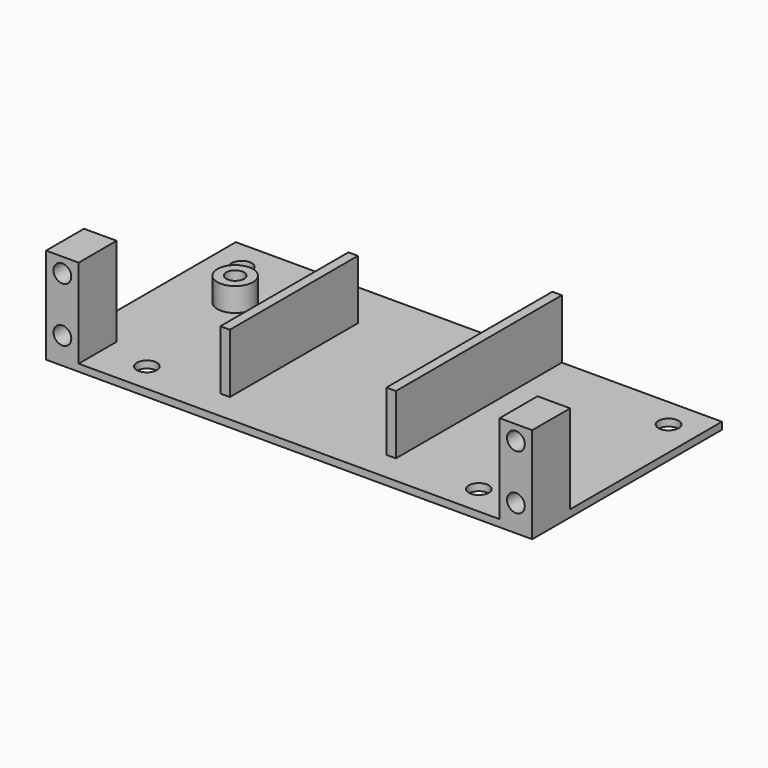
from build123d import *

# Parameters (mm, degrees)
SKETCH_W        = 82
SKETCH_H        = 40
PAD_DEPTH       = 1.2
SKETCH001_W     = 5.5
SKETCH001_H     = 8
PAD001_DEPTH    = 15
SKETCH002_R     = 1.5
POCKET_DEPTH    = 40.001
SKETCH003_W     = 1.6
SKETCH003_H     = 35
PAD002_DEPTH    = 10
SKETCH004_R     = 3
SKETCH004_R_2   = 1.5
PAD003_DEPTH    = 4
SKETCH005_R     = 1.7
POCKET001_DEPTH = 1.201
SKETCH006_R     = 1.5
POCKET002_DEPTH = 1.201
SKETCH007_W     = 1.6
SKETCH007_H     = 8
POCKET003_DEPTH = 10


with BuildPart() as part:
    # Sketch → Pad (new body)
    with BuildSketch(Plane.XY):
        with Locations((41, 20)):
            Rectangle(SKETCH_W, SKETCH_H)
    extrude(amount=PAD_DEPTH)

    # Sketch001 (on Face6 of Pad) → Pad001 (join)
    with BuildSketch(Plane.XY.offset(1.2)):
        with Locations((2.75, 4)):
            Rectangle(SKETCH001_W, SKETCH001_H)
        with Locations((79.25, 4)):
            Rectangle(SKETCH001_W, SKETCH001_H)
    extrude(amount=PAD001_DEPTH)

    # Sketch002 (on Face5 of Pad001) → Pocket (cut, through all)
    with BuildSketch(Plane.XZ):
        with Locations((2.75, 13.7)):
            Circle(SKETCH002_R)
        with Locations((2.75, 4.5)):
            Circle(SKETCH002_R)
        with Locations((79.25, 13.7)):
            Circle(SKETCH002_R)
        with Locations((79.25, 4.5)):
            Circle(SKETCH002_R)
    extrude(amount=-POCKET_DEPTH, mode=Mode.SUBTRACT)

    # Sketch003 (on Face6 of Pocket) → Pad002 (join)
    with BuildSketch(Plane.XY.offset(1.2)):
        with Locations((26.2, 22.5)):
            Rectangle(SKETCH003_W, SKETCH003_H)
        with Locations((54.2, 22.5)):
            Rectangle(SKETCH003_W, SKETCH003_H)
    extrude(amount=PAD002_DEPTH)

    # Sketch004 (on Face6 of Pad002) → Pad003 (join)
    with BuildSketch(Plane.XY.offset(1.2)):
        with Locations((10.7, 26.5)):
            Circle(SKETCH004_R)
        with Locations((10.7, 26.5)):
            Circle(SKETCH004_R_2, mode=Mode.SUBTRACT)
    extrude(amount=PAD003_DEPTH)

    # Sketch005 (on Face6 of Pad003) → Pocket001 (cut, through all)
    with BuildSketch(Plane.XY.offset(1.2)):
        with Locations((5, 35)):
            Circle(SKETCH005_R)
        with Locations((77, 35)):
            Circle(SKETCH005_R)
        with Locations((69, 5)):
            Circle(SKETCH005_R)
        with Locations((13, 5)):
            Circle(SKETCH005_R)
    extrude(amount=-POCKET001_DEPTH, mode=Mode.SUBTRACT)

    # Sketch006 (on Face38 of Pocket001) → Pocket002 (cut, through all)
    with BuildSketch(Plane.XY.offset(1.2)):
        with Locations((10.7, 26.5)):
            Circle(SKETCH006_R)
    extrude(amount=-POCKET002_DEPTH, mode=Mode.SUBTRACT)

    # Sketch007 (on Face36 of Pocket002) → Pocket003 (cut)
    with BuildSketch(Plane.XY.offset(11.2)):
        with Locations((26.2, 36)):
            Rectangle(SKETCH007_W, SKETCH007_H)
    extrude(amount=-POCKET003_DEPTH, mode=Mode.SUBTRACT)


solid = part.part
